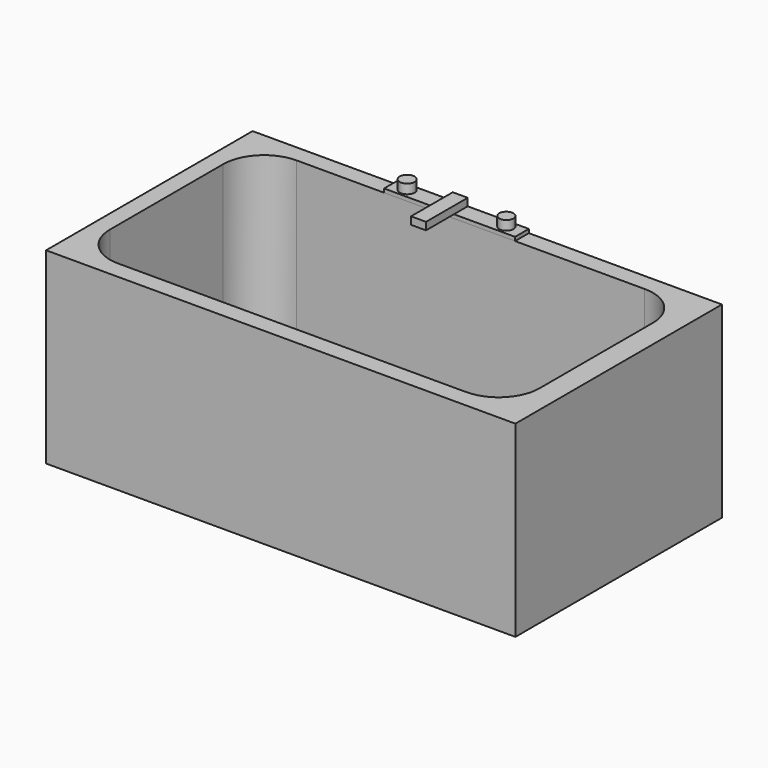
from build123d import *

# Parameters (mm, degrees)
F0_W      = 1524
F0_H      = 838.2
F1_DEPTH  = 609.6
F2_W      = 1395.054366
F2_H      = 724.740747
F3_DEPTH  = 566.928
F4_R      = 132.453413
F5_R      = 44.151138
F6_W      = 425.36959
F6_H      = 55.928048
F7_DEPTH  = 12.192
F8_R      = 24.306834
F8_R_2    = 23.095071
F9_DEPTH  = 30.48
F10_W     = 48.613667
F10_H     = 169.339478
F11_DEPTH = 24.384
F12_R     = 31.640419
F13_DEPTH = 15.24


with BuildPart() as f1:
    # F0 (on Top) → F1 (new body)
    with BuildSketch(Plane.XY):
        with Locations((762, -419.1)):
            Rectangle(F0_W, F0_H)
    extrude(amount=F1_DEPTH)

    # F2 (on face) → F3 (cut)
    with BuildSketch(Plane.XY.offset(609.6)):
        with Locations((752.887117, -418.298421)):
            Rectangle(F2_W, F2_H)
    extrude(amount=-F3_DEPTH, mode=Mode.SUBTRACT)

    # F4
    f4_edges = [f1.edges().sort_by_distance(p)[0] for p in [
        (55.359934, -55.928048, 326.136),
        (1450.4143, -55.928048, 326.136),
        (1450.4143, -780.668795, 326.136),
        (55.359934, -780.668795, 326.136),
    ]]
    fillet(f4_edges, radius=F4_R)

    # F5
    f5_edges = [f1.edges().sort_by_distance(p)[0] for p in [
        (752.887117, -55.928048, 42.672),
        (1411.619594, -94.722754, 42.672),
        (94.15464, -94.722754, 42.672),
        (1450.4143, -418.298421, 42.672),
        (55.359934, -418.298421, 42.672),
        (1411.619594, -741.874089, 42.672),
        (94.15464, -741.874089, 42.672),
        (752.887117, -780.668795, 42.672),
    ]]
    fillet(f5_edges, radius=F5_R)

    # F6 (on face) → F7 (join)
    with BuildSketch(Plane.XY.offset(609.6)):
        with Locations((684.401408, -27.964024)):
            Rectangle(F6_W, F6_H)
    extrude(amount=F7_DEPTH)

    # F8 (on face) → F9 (join)
    with BuildSketch(Plane.XY.offset(621.792)):
        with Locations((522.355855, -25.524048)):
            Circle(F8_R)
        with Locations((844.421446, -25.524048)):
            Circle(F8_R_2)
    extrude(amount=F9_DEPTH)

    # F10 (on face) → F11 (join)
    with BuildSketch(Plane.XY.offset(621.792)):
        with Locations((674.273551, -84.669739)):
            Rectangle(F10_W, F10_H)
    extrude(amount=F11_DEPTH)

    # F12 (on face) → F13 (cut)
    with BuildSketch(Plane.XY.offset(42.672)):
        with Locations((250.929534, -400.254399)):
            Circle(F12_R)
    extrude(amount=-F13_DEPTH, mode=Mode.SUBTRACT)


solid = f1.part
